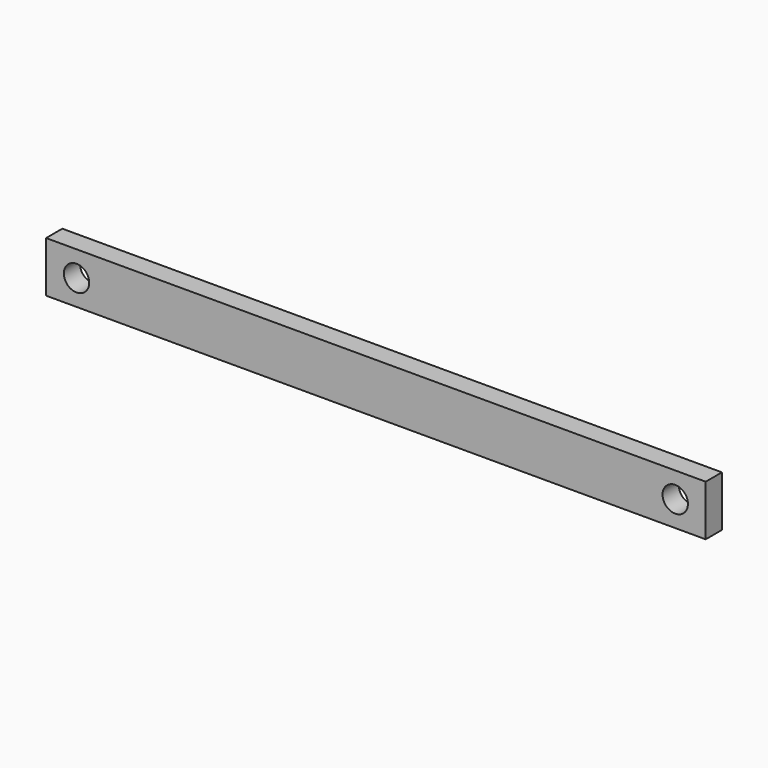
from build123d import *

# Parameters (mm, degrees)
F0_W     = 165.1
F0_H     = 12.7
F0_R     = 3.175
F1_DEPTH = 5.08


with BuildPart() as f1:
    # F0 (on Front) → F1 (new body)
    with BuildSketch(Plane.XZ):
        Rectangle(F0_W, F0_H)
        with Locations((-74.93, 0)):
            Circle(F0_R, mode=Mode.SUBTRACT)
        with Locations((74.93, 0)):
            Circle(F0_R, mode=Mode.SUBTRACT)
        Rectangle(F0_W, F0_H)
        with Locations((-74.93, 0)):
            Circle(F0_R, mode=Mode.SUBTRACT)
        with Locations((74.93, 0)):
            Circle(F0_R, mode=Mode.SUBTRACT)
    extrude(amount=F1_DEPTH)


solid = f1.part
